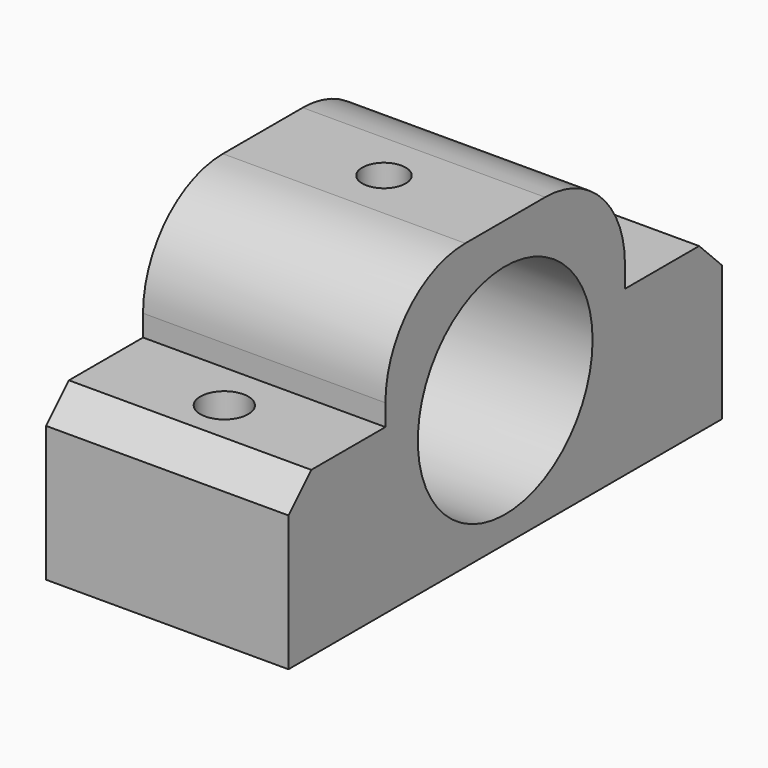
from build123d import *

# Parameters (mm, degrees)
BOX_W           = 17
BOX_H           = 38
BOX_DEPTH       = 20
SKETCH_R        = 7.66
SKETCH_W        = 8.5
SKETCH_H        = 8.5
POCKET_DEPTH    = 17.001
SKETCH005_R     = 1.52
POCKET001_DEPTH = 5
SKETCH006_R     = 1.68
POCKET002_DEPTH = 13
FILLET_R        = 7
CHAMFER_SIZE    = 2


with BuildPart() as part:
    # Box → Box (new body)
    with BuildSketch(Plane(origin=(0, 38, 0), x_dir=(1, 0, 0), z_dir=(0, 0, 1))):
        with Locations((8.5, 19)):
            Rectangle(BOX_W, BOX_H)
    extrude(amount=BOX_DEPTH)

    # Sketch → Pocket (cut, through all)
    with BuildSketch(Plane(origin=(17, 38, 0), x_dir=(0, 1, 0), z_dir=(1, 0, 0))):
        with Locations((19, 9.5)):
            Circle(SKETCH_R)
        with Locations((4.25, 15.75)):
            Rectangle(SKETCH_W, SKETCH_H)
        with Locations((33.75, 15.75)):
            Rectangle(SKETCH_W, SKETCH_H)
    extrude(amount=-POCKET_DEPTH, mode=Mode.SUBTRACT)

    # Sketch005 → Pocket001 (cut)
    with BuildSketch(Plane(origin=(0, 38, 20), x_dir=(1, 0, 0), z_dir=(0, 0, 1))):
        with Locations((8.5, 19)):
            Circle(SKETCH005_R)
    extrude(amount=-POCKET001_DEPTH, mode=Mode.SUBTRACT)

    # Sketch006 → Pocket002 (cut)
    with BuildSketch(Plane(origin=(0, 38, 0), x_dir=(1, 0, 0), z_dir=(0, 0, -1))):
        with Locations((8.5, -33)):
            Circle(SKETCH006_R)
        with Locations((8.5, -5)):
            Circle(SKETCH006_R)
    extrude(amount=-POCKET002_DEPTH, mode=Mode.SUBTRACT)

    # Fillet
    fillet_edges = [part.edges().sort_by_distance(p)[0] for p in [
        (8.5, 46.5, 20),
        (8.5, 67.5, 20),
    ]]
    fillet(fillet_edges, radius=FILLET_R)

    # Chamfer
    chamfer_edges = [part.edges().sort_by_distance(p)[0] for p in [
        (8.5, 38, 11.5),
        (8.5, 76, 11.5),
    ]]
    chamfer(chamfer_edges, length=CHAMFER_SIZE)


solid = part.part
